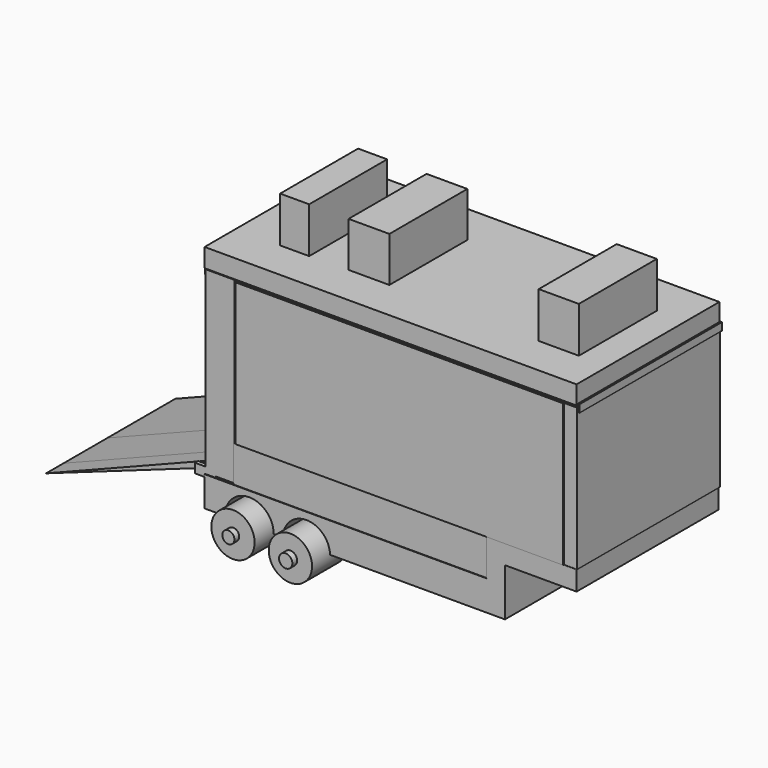
from build123d import *

# Parameters (mm, degrees)
F1_DEPTH       = 38.862
F1_DEPTH_BACK  = 43.434
F2_R           = 11.3376030002
F2_R_2         = 10.956529081
F3_DEPTH       = 43.942
F3_DEPTH_BACK  = 49.276
F5_START       = 33.528
F4_W           = 45.4701650888
F4_H           = 16.9055731967
F4_W_2         = 72.5773833692
F5_DEPTH       = 5.08
F7_START       = -38.608
F6_W           = 51.5911467373
F6_H           = 16.6140981019
F6_W_2         = 65.8734384924
F7_DEPTH       = 4.826
F9_START       = -87.884
F8_W           = 71.702953428
F8_H           = 6.7039392889
F9_DEPTH       = 13.462
F11_DEPTH      = 35.56
F11_DEPTH_BACK = 39.37
F12_W          = 6.0947537422
F12_H          = 66.0799681209
F13_DEPTH      = 39.116
F13_DEPTH_BACK = 43.942
F15_START      = 33.274
F14_W          = 65.1074424386
F14_H          = 66.0799662583
F14_W_2        = 86.940638721
F15_DEPTH      = 5.842
F17_START      = -38.1
F16_W          = 65.1074424386
F16_H          = 67.042295821
F16_W_2        = 88.5445252061
F17_DEPTH      = 6.096
F18_W          = 100.7238291204
F18_H          = 8.6609646678
F18_W_2        = 71.8539468944
F19_DEPTH      = 38.862
F19_DEPTH_BACK = 43.942
F20_W          = 18.925813958
F20_H          = 20.8504721522
F21_DEPTH      = 20.828
F21_DEPTH_BACK = 24.384
F20_W_2        = 13.4726166725
F20_H_2        = 22.1335813403
F20_W_3        = 18.6050385237
F20_H_3        = 21.1712494493
F22_W          = 173.7697198987
F22_H          = 3.5137236118
F23_DEPTH      = 38.1
F23_DEPTH_BACK = 44.45
F24_DEPTH      = 25.4
F25_W          = 9.2087239027
F25_H          = 3.3827982843
F26_DEPTH      = 2.032
F27_W          = 9.5522403717
F27_H          = 4.3528731912
F28_DEPTH      = 1.778
F29_R          = 0.498771705
F30_DEPTH      = 81.28
F32_START      = 28.448
F31_R          = 10.0539795899
F32_DEPTH      = 20.066
F31_R_2        = 10.0456530786
F34_R          = 3.0887352078
F35_DEPTH      = 51.308
F35_DEPTH_BACK = 51.9176
F34_R_2        = 2.8061072416
F36_R          = 25.1944748939
F37_DEPTH      = 8.382
F37_DEPTH_BACK = 6.35


with BuildPart() as f1:
    # F0 (on Front) → F1 (new body, two sides)
    with BuildSketch(Plane.XZ) as f1_sk:
        Polygon((71.1200013757, -15.0109836832), (71.1200013757, -5.9752459638), (29.439015314, -5.9752459638), (29.439015314, -23.172294721), (-101.4334410429, -23.172294721), (-101.4334410429, -37.1631160378), (37.891805172, -37.1631160378), (37.891805172, -15.0109836832), align=None)
    extrude(amount=F1_DEPTH)
    extrude(f1_sk.sketch, amount=-F1_DEPTH_BACK)

    # F2 (on Front) → F3 (cut, two sides)
    with BuildSketch(Plane.XZ) as f3_sk:
        with Locations((-80.7386860251, -37.1631160378)):
            Circle(F2_R)
        with Locations((-54.214425385, -37.4545902014)):
            Circle(F2_R_2)
    extrude(amount=F3_DEPTH, mode=Mode.SUBTRACT)
    extrude(f3_sk.sketch, amount=-F3_DEPTH_BACK, mode=Mode.SUBTRACT)

    # F4 (on Front) → F5 (join)
    with BuildSketch(Plane.XZ.offset(F5_START)):
        with Locations((7.120330818, -14.7195081227)):
            Rectangle(F4_W, F4_H)
        with Locations((-51.903443411, -14.7195081227)):
            Rectangle(F4_W_2, F4_H)
    extrude(amount=F5_DEPTH)

    # F6 (on Front) → F7 (join)
    with BuildSketch(Plane.XZ.offset(F7_START)):
        with Locations((3.6434419453, -14.8652456701)):
            Rectangle(F6_W, F6_H)
        with Locations((-55.0888506696, -14.8652456701)):
            Rectangle(F6_W_2, F6_H)
    extrude(amount=-F7_DEPTH)

    # F8 (on Right) → F9 (join)
    with BuildSketch(Plane.YZ.offset(F9_START)):
        Polygon((38.1000041962, -23.172294721), (43.9295098186, -23.172294721), (43.9295098186, 60.4811497033), (38.1000041962, 60.4811497033), (38.1000041962, 53.7772104144), align=None)
        with Locations((2.2485274822, 57.1291800588)):
            Rectangle(F8_W, F8_H)
        Polygon((-33.6029492319, -22.5893463939), (-33.6029492319, 53.7772104144), (-33.6029492319, 60.4811497033), (-38.5580323637, 60.4811497033), (-38.5580323637, -22.5893463939), align=None)
    extrude(amount=-F9_DEPTH)

    # F14 (on Front) → F15 (join)
    with BuildSketch(Plane.XZ.offset(F15_START)):
        with Locations((32.5537212193, 26.9815365318)):
            Rectangle(F14_W, F14_H)
        with Locations((-43.4703193605, 26.9815365318)):
            Rectangle(F14_W_2, F14_H)
    extrude(amount=F15_DEPTH)

    # F16 (on Front) → F17 (join)
    with BuildSketch(Plane.XZ.offset(F17_START)):
        with Locations((32.5537212193, 26.5003717504)):
            Rectangle(F16_W, F16_H)
        with Locations((-44.272262603, 26.5003717504)):
            Rectangle(F16_W_2, F16_H)
    extrude(amount=-F17_DEPTH)

    # F25 (on face) → F26 (join)
    with BuildSketch(Plane(origin=(0, 43.9295098186, 0), x_dir=(-1, 0, 0), z_dir=(0, 1, 0))):
        with Locations((102.4142354727, -22.9727905244)):
            Rectangle(F25_W, F25_H)
    extrude(amount=-F26_DEPTH)

    # F27 (on face) → F28 (join)
    with BuildSketch(Plane.XZ.offset(38.5580323637)):
        with Locations((-101.4059185982, -22.3182095215)):
            Rectangle(F27_W, F27_H)
    extrude(amount=-F28_DEPTH)

    # F29 (on face) → F30 (join)
    with BuildSketch(Plane.XZ.offset(38.5580323637)):
        with Locations((-104.0869578719, -22.8203143924)):
            Circle(F29_R)
    extrude(amount=-F30_DEPTH)

    # F36 (on face) → F37 (join, two sides)
    with BuildSketch(Plane(origin=(0, 44.196, 0), x_dir=(-1, 0, 0), z_dir=(0, 1, 0))) as f37_sk:
        with Locations((-28.8171786815, 20.5643624067)):
            Circle(F36_R)
    extrude(amount=F37_DEPTH)
    extrude(f37_sk.sketch, amount=-F37_DEPTH_BACK)


with BuildPart() as f11:
    # F10 (on Front) → F11 (new body, two sides)
    with BuildSketch(Plane.XZ) as f11_sk:
        with BuildLine():
            ThreePointArc((-103.4097694487, -22.8003077209), (-103.9796929185, -23.476895095), (-104.7432717539, -23.0302066148))
            Line((-104.7432717539, -23.0302066148), (-105.3375046329, -23.2413774079))
            ThreePointArc((-105.3375046329, -23.2413774079), (-103.8725498773, -24.0983660815), (-102.7791302347, -22.8003077209))
            ThreePointArc((-102.7791302347, -22.8003077209), (-103.1649315017, -21.8689010697), (-104.0963381529, -21.4830998027))
            Line((-104.0963381529, -21.4830998027), (-104.0963381529, -22.1137390167))
            ThreePointArc((-104.0963381529, -22.1137390167), (-103.6108607664, -22.3148303344), (-103.4097694487, -22.8003077209))
        make_face()
        with BuildLine():
            Line((-105.3375046329, -23.2413774079), (-104.7432717539, -23.0302066148))
            ThreePointArc((-104.7432717539, -23.0302066148), (-104.6572383094, -22.4043688368), (-104.0963381529, -22.1137390167))
            Line((-104.0963381529, -22.1137390167), (-104.0963381529, -21.4830998027))
            ThreePointArc((-104.0963381529, -21.4830998027), (-105.1724462292, -22.0406840589), (-105.3375046329, -23.2413774079))
        make_face()
        with BuildLine():
            Line((-177.6416003704, -48.9358715713), (-105.3375046329, -23.2413774079))
            ThreePointArc((-105.3375046329, -23.2413774079), (-105.1724462292, -22.0406840589), (-104.0963381529, -21.4830998027))
            Line((-104.0963381529, -21.4830998027), (-104.0963381529, -19.9252068996))
            Line((-104.0963381529, -19.9252068996), (-177.6416003704, -48.9358715713))
        make_face()
    extrude(amount=F11_DEPTH)
    extrude(f11_sk.sketch, amount=-F11_DEPTH_BACK)

    # F10 (on Front) → F24 (join)
    with BuildSketch(Plane.XZ):
        with BuildLine():
            ThreePointArc((-103.4097694487, -22.8003077209), (-103.9796929185, -23.476895095), (-104.7432717539, -23.0302066148))
            Line((-104.7432717539, -23.0302066148), (-105.3375046329, -23.2413774079))
            ThreePointArc((-105.3375046329, -23.2413774079), (-103.8725498773, -24.0983660815), (-102.7791302347, -22.8003077209))
            ThreePointArc((-102.7791302347, -22.8003077209), (-103.1649315017, -21.8689010697), (-104.0963381529, -21.4830998027))
            Line((-104.0963381529, -21.4830998027), (-104.0963381529, -22.1137390167))
            ThreePointArc((-104.0963381529, -22.1137390167), (-103.6108607664, -22.3148303344), (-103.4097694487, -22.8003077209))
        make_face()
        with BuildLine():
            Line((-105.3375046329, -23.2413774079), (-104.7432717539, -23.0302066148))
            ThreePointArc((-104.7432717539, -23.0302066148), (-104.6572383094, -22.4043688368), (-104.0963381529, -22.1137390167))
            Line((-104.0963381529, -22.1137390167), (-104.0963381529, -21.4830998027))
            ThreePointArc((-104.0963381529, -21.4830998027), (-105.1724462292, -22.0406840589), (-105.3375046329, -23.2413774079))
        make_face()
        with BuildLine():
            Line((-177.6416003704, -48.9358715713), (-105.3375046329, -23.2413774079))
            ThreePointArc((-105.3375046329, -23.2413774079), (-105.1724462292, -22.0406840589), (-104.0963381529, -21.4830998027))
            Line((-104.0963381529, -21.4830998027), (-104.0963381529, -19.9252068996))
            Line((-104.0963381529, -19.9252068996), (-177.6416003704, -48.9358715713))
        make_face()
    extrude(amount=F24_DEPTH)


with BuildPart() as f13:
    # F12 (on Front) → F13 (new body, two sides)
    with BuildSketch(Plane.XZ) as f13_sk:
        with Locations((68.4755966067, 27.3023128975)):
            Rectangle(F12_W, F12_H)
    extrude(amount=F13_DEPTH)
    extrude(f13_sk.sketch, amount=-F13_DEPTH_BACK)


with BuildPart() as f19:
    # F18 (on Front) → F19 (new body, two sides)
    with BuildSketch(Plane.XZ) as f19_sk:
        with Locations((20.7512695342, 65.3143338859)):
            Rectangle(F18_W, F18_H)
        with Locations((-65.5376184732, 65.3143338859)):
            Rectangle(F18_W_2, F18_H)
    extrude(amount=F19_DEPTH)
    extrude(f19_sk.sketch, amount=-F19_DEPTH_BACK)

    # F20 (on Front) → F21, piece 2 (join, two sides)
    with BuildSketch(Plane.XZ) as f21_2_sk:
        with Locations((-74.1095766425, 79.7492749989)):
            Rectangle(F20_W_2, F20_H_2)
        with Locations((48.4270602465, 80.2304409444)):
            Rectangle(F20_W_3, F20_H_3)
    extrude(amount=F21_DEPTH)
    extrude(f21_2_sk.sketch, amount=-F21_DEPTH_BACK)


with BuildPart() as f21:
    # F20 (on Front) → F21 (new body, two sides)
    with BuildSketch(Plane.XZ) as f21_sk:
        with Locations((-39.6261001006, 80.3908295929)):
            Rectangle(F20_W, F20_H)
    extrude(amount=F21_DEPTH)
    extrude(f21_sk.sketch, amount=-F21_DEPTH_BACK)


with BuildPart() as f23:
    # F22 (on Front) → F23 (new body, two sides)
    with BuildSketch(Plane.XZ) as f23_sk:
        with Locations((-14.9909071624, 59.6944950521)):
            Rectangle(F22_W, F22_H)
    extrude(amount=F23_DEPTH)
    extrude(f23_sk.sketch, amount=-F23_DEPTH_BACK)


with BuildPart() as f32:
    # F31 (on Front) → F32 (new body)
    with BuildSketch(Plane.XZ.offset(F32_START)):
        with Locations((-53.9294593036, -38.1027087569)):
            Circle(F31_R)
    extrude(amount=F32_DEPTH)


with BuildPart() as f32b:
    # F31 (on Front) → F32, piece 2 (new body)
    with BuildSketch(Plane.XZ.offset(F32_START)):
        with Locations((-80.5695578456, -37.0900221169)):
            Circle(F31_R_2)
    extrude(amount=F32_DEPTH)


with BuildPart() as f33_1:
    # F33: instance of F32
    add(f32.part.mirror(Plane.XZ))


with BuildPart() as f33_2:
    # F33: instance of F32b
    add(f32b.part.mirror(Plane.XZ))


with BuildPart() as f35:
    # F34 (on Front) → F35 (new body, two sides)
    with BuildSketch(Plane.XZ) as f35_sk:
        with Locations((-53.8812689483, -38.0488410592)):
            Circle(F34_R)
    extrude(amount=F35_DEPTH)
    extrude(f35_sk.sketch, amount=-F35_DEPTH_BACK)


with BuildPart() as f35b:
    # F34 (on Front) → F35, piece 2 (new body, two sides)
    with BuildSketch(Plane.XZ) as f35_2_sk:
        with Locations((-80.4727450013, -37.0420366526)):
            Circle(F34_R_2)
    extrude(amount=F35_DEPTH)
    extrude(f35_2_sk.sketch, amount=-F35_DEPTH_BACK)


solid = Compound([f1.part, f11.part, f13.part, f19.part, f21.part, f23.part, f32.part, f32b.part, f33_1.part, f33_2.part, f35.part, f35b.part])
